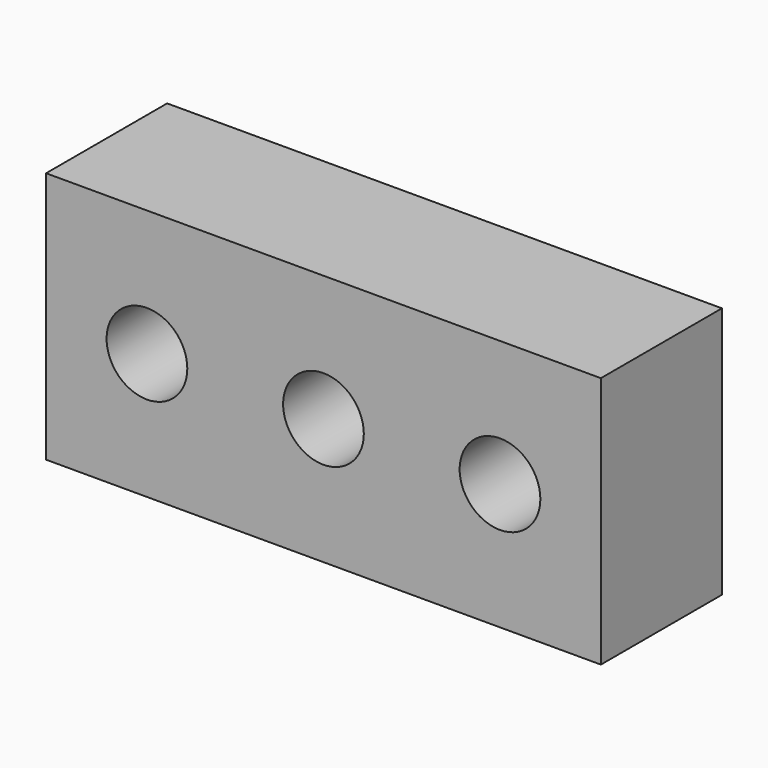
from build123d import *

# Parameters (mm, degrees)
F0_W     = 55
F0_H     = 15
F1_DEPTH = 25
F2_R     = 4
F3_DEPTH = 25


with BuildPart() as f1:
    # F0 (on Top) → F1 (new body)
    with BuildSketch(Plane.XY):
        with Locations((-27.5, 33.620072)):
            Rectangle(F0_W, F0_H)
    extrude(amount=F1_DEPTH)

    # F2 (on face) → F3 (cut)
    with BuildSketch(Plane.XZ.offset(-26.120072)):
        with Locations((-10, 12.5)):
            Circle(F2_R)
        with Locations((-45, 12.5)):
            Circle(F2_R)
        with Locations((-27.5, 12.5)):
            Circle(F2_R)
    extrude(amount=-F3_DEPTH, mode=Mode.SUBTRACT)


solid = f1.part
